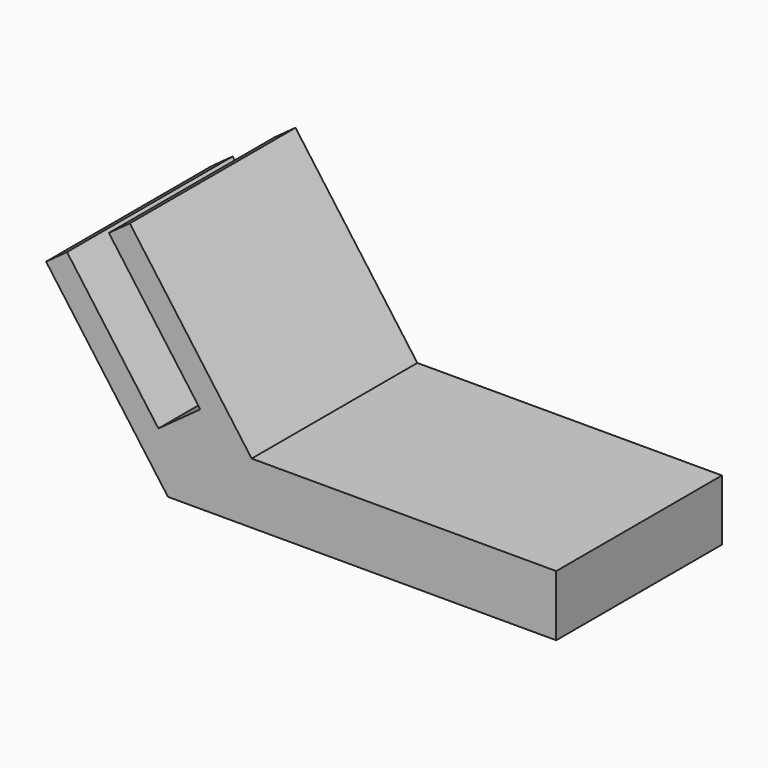
from build123d import *

# Parameters (mm, degrees)
F1_DEPTH = 80


with BuildPart() as f1:
    # F0 (on Front) → F1 (new body)
    with BuildSketch(Plane.XZ):
        Polygon((-122.28357, 30.714814), (-75.210708, -33.970159), (74.789292, -33.970159), (74.789292, -23.970159), (74.789292, -10.433727), (-42.868222, -10.433727), (-89.941084, 54.251245), (-98.026706, 48.367137), (-62.722059, -0.146592), (-78.893302, -11.914808), (-114.197949, 36.598921), align=None)
    extrude(amount=-F1_DEPTH)


solid = f1.part
